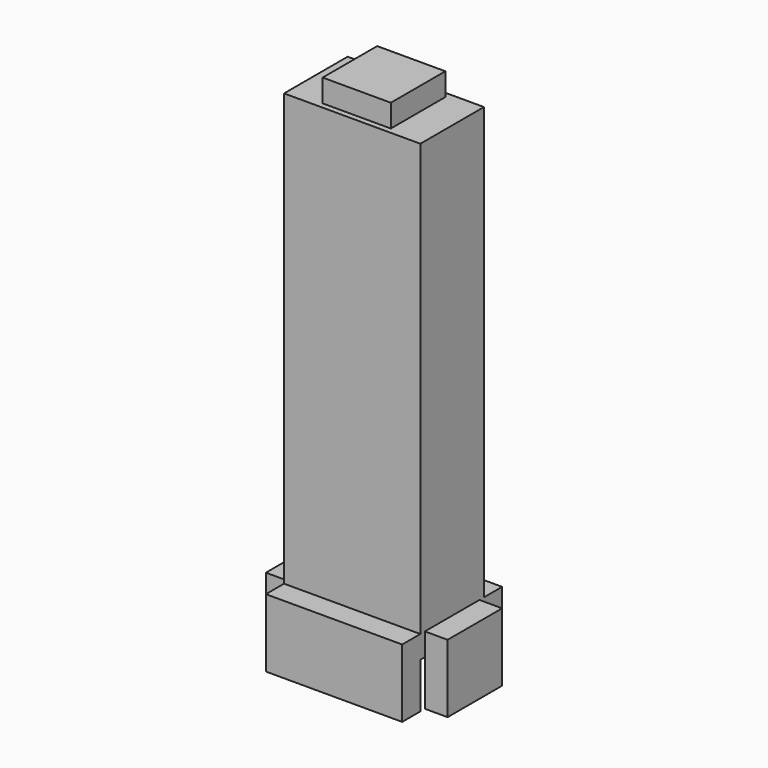
from build123d import *

# Parameters (mm, degrees)
BOX013_W     = 3
BOX013_H     = 3
BOX013_DEPTH = 10
BOX009_W     = 1
BOX009_H     = 3
BOX009_DEPTH = 3
BOX010_W     = 1
BOX010_H     = 3
BOX010_DEPTH = 3
BOX011_W     = 6
BOX011_H     = 1
BOX011_DEPTH = 3
BOX012_W     = 6
BOX012_H     = 1
BOX012_DEPTH = 3
BOX008_W     = 6
BOX008_H     = 3.5
BOX008_DEPTH = 20


with BuildPart() as box013:
    # Box013 → Box013 (new body)
    with BuildSketch(Plane(origin=(13.5, 19.25, 20), x_dir=(1, 0, 0), z_dir=(0, 0, 1))):
        with Locations((1.5, 1.5)):
            Rectangle(BOX013_W, BOX013_H)
    extrude(amount=BOX013_DEPTH)


with BuildPart() as box009:
    # Box009 → Box009 (new body)
    with BuildSketch(Plane(origin=(11, 7.25, 7), x_dir=(1, 0, 0), z_dir=(0, 0, 1))):
        with Locations((0.5, 1.5)):
            Rectangle(BOX009_W, BOX009_H)
    extrude(amount=BOX009_DEPTH)


with BuildPart() as box010:
    # Box010 → Box010 (new body)
    with BuildSketch(Plane(origin=(18, 7.25, 7), x_dir=(1, 0, 0), z_dir=(0, 0, 1))):
        with Locations((0.5, 1.5)):
            Rectangle(BOX010_W, BOX010_H)
    extrude(amount=BOX010_DEPTH)


with BuildPart() as box011:
    # Box011 → Box011 (new body)
    with BuildSketch(Plane(origin=(12, 6, 7), x_dir=(1, 0, 0), z_dir=(0, 0, 1))):
        with Locations((3, 0.5)):
            Rectangle(BOX011_W, BOX011_H)
    extrude(amount=BOX011_DEPTH)


with BuildPart() as box012:
    # Box012 → Box012 (new body)
    with BuildSketch(Plane(origin=(12, 10.5, 7), x_dir=(1, 0, 0), z_dir=(0, 0, 1))):
        with Locations((3, 0.5)):
            Rectangle(BOX012_W, BOX012_H)
    extrude(amount=BOX012_DEPTH)


with BuildPart() as bt_ex2:
    # Box008 → Box008 (new body)
    with BuildSketch(Plane(origin=(12, 7, 9), x_dir=(1, 0, 0), z_dir=(0, 0, 1))):
        with Locations((3, 1.75)):
            Rectangle(BOX008_W, BOX008_H)
    extrude(amount=BOX008_DEPTH)

    # Fusion001: union Box009, Box010, Box011, Box012
    add(box009.part)
    add(box010.part)
    add(box011.part)
    add(box012.part)


with BuildPart() as bt_ex2_1:
    # Fusion001 placement: moved
    add(bt_ex2.part.moved(Location((0, 12, 0))))

    # Fusion006: union Box013
    add(box013.part)


solid = bt_ex2_1.part
